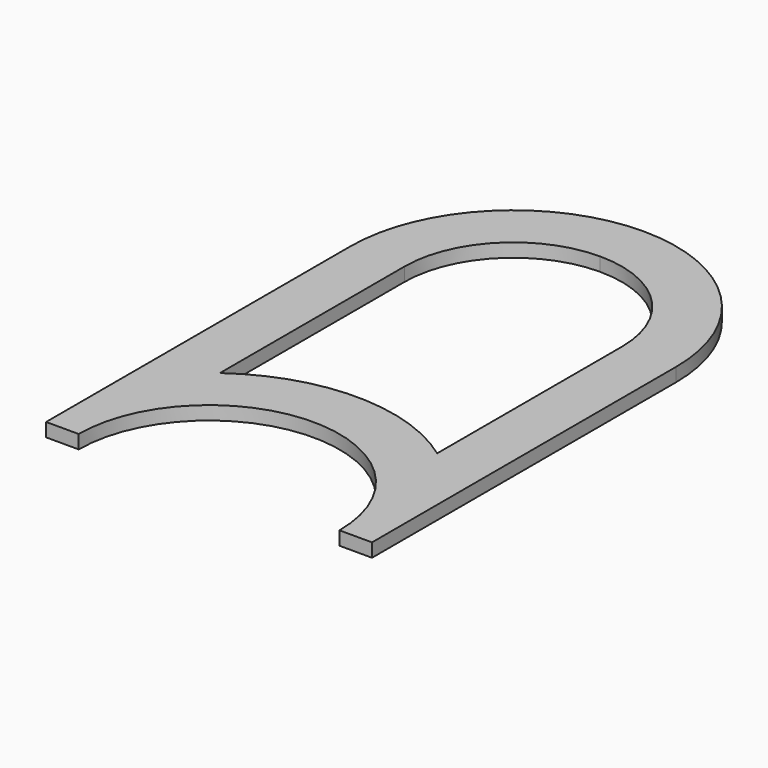
from build123d import *

# Parameters (mm, degrees)
F1_DEPTH = 25


with BuildPart() as f1:
    # F0 (on Top) → F1 (new body)
    with BuildSketch(Plane.XY):
        with BuildLine():
            ThreePointArc((300, 0), (87.867966, -87.867966), (0, -300))
            Line((0, -300), (0, -1000))
            Line((0, -1000), (60, -1000))
            ThreePointArc((60, -1000), (300, -760), (540, -1000))
            Line((540, -1000), (600, -1000))
            Line((600, -1000), (600, -300))
            ThreePointArc((600, -300), (512.132034, -87.867966), (300, 0))
        make_face()
        with BuildLine():
            ThreePointArc((100, -300), (158.578644, -158.578644), (300, -100))
            ThreePointArc((300, -100), (441.421356, -158.578644), (500, -300))
            Line((500, -300), (500, -725.045458))
            ThreePointArc((500, -725.045458), (300, -660), (100, -725.045458))
            Line((100, -725.045458), (100, -300))
        make_face(mode=Mode.SUBTRACT)
    extrude(amount=F1_DEPTH)


solid = f1.part
